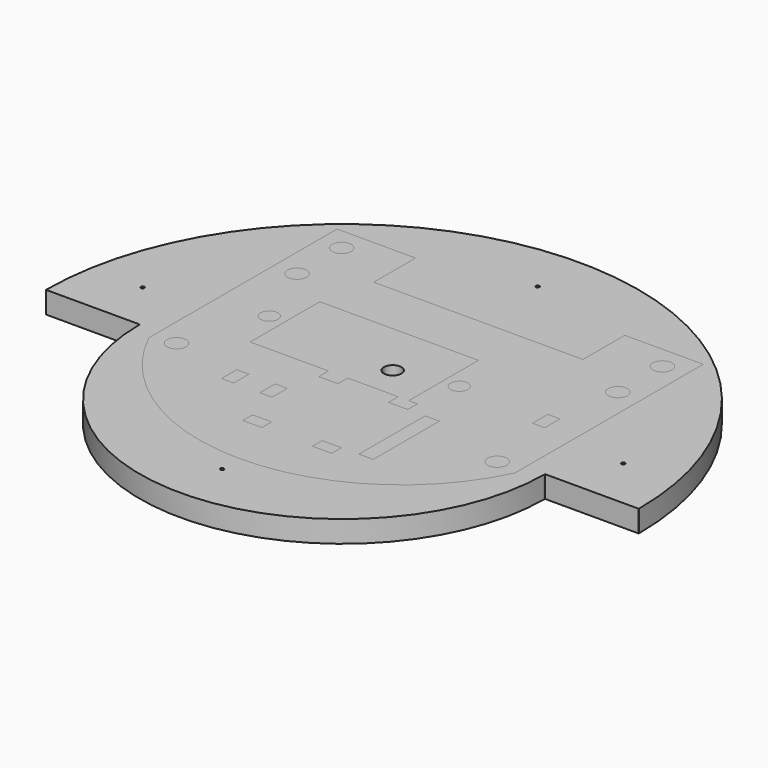
from build123d import *

# Parameters (mm, degrees)
F2_DEPTH = 3.175
F3_DEPTH = 3.175


with BuildPart() as f2:
    # F0 (on Top) → F2 (new body)
    with BuildSketch(Plane.XY):
        with BuildLine():
            Line((-43.17111, -6.832549), (-29.51861, -6.832549))
            ThreePointArc((-29.51861, -6.832549), (-29.51226, -6.826199), (-29.50591, -6.832549))
            ThreePointArc((-29.50591, -6.832549), (-29.508244, -6.837468), (-29.51353, -6.838771))
            Line((-29.51353, -6.838771), (-29.51353, -6.953327))
            ThreePointArc((-29.51353, -6.953327), (-29.508244, -6.954631), (-29.50591, -6.959549))
            ThreePointArc((-29.50591, -6.959549), (-29.508236, -6.964461), (-29.513509, -6.965775))
            ThreePointArc((-29.513509, -6.965775), (0.001274, -36.347629), (29.516049, -6.965767))
            ThreePointArc((29.516049, -6.965767), (29.512414, -6.963557), (29.51099, -6.959549))
            ThreePointArc((29.51099, -6.959549), (29.512421, -6.955533), (29.51607, -6.953327))
            Line((29.51607, -6.953327), (29.51607, -6.838771))
            ThreePointArc((29.51607, -6.838771), (29.512421, -6.836565), (29.51099, -6.832549))
            ThreePointArc((29.51099, -6.832549), (29.51734, -6.826199), (29.52369, -6.832549))
            Line((29.52369, -6.832549), (43.17619, -6.832549))
            ThreePointArc((43.17619, -6.832549), (43.177678, -6.828957), (43.18127, -6.827469))
            Line((43.18127, -6.827469), (43.18127, -6.710629))
            ThreePointArc((43.18127, -6.710629), (43.177678, -6.709141), (43.17619, -6.705549))
            ThreePointArc((43.17619, -6.705549), (43.177669, -6.701966), (43.181246, -6.700469))
            ThreePointArc((43.181246, -6.700469), (0.00254, 36.347629), (-43.178698, -6.697929))
            ThreePointArc((-43.178698, -6.697929), (-43.173331, -6.700172), (-43.17111, -6.705549))
            ThreePointArc((-43.17111, -6.705549), (-43.173342, -6.710937), (-43.17873, -6.713169))
            Line((-43.17873, -6.713169), (-43.17873, -6.824929))
            ThreePointArc((-43.17873, -6.824929), (-43.173342, -6.827161), (-43.17111, -6.832549))
        make_face()
        with BuildLine():
            ThreePointArc((-9.396715, -6.826324), (-8.114027, -5.549849), (-6.831345, -6.826331))
            ThreePointArc((-6.831345, -6.826331), (-6.82605, -6.827626), (-6.82371, -6.832549))
            ThreePointArc((-6.82371, -6.832549), (-6.82605, -6.837473), (-6.831345, -6.838768))
            ThreePointArc((-6.831345, -6.838768), (-8.114027, -8.115249), (-9.396715, -6.838774))
            ThreePointArc((-9.396715, -6.838774), (-9.400374, -6.836571), (-9.40181, -6.832549))
            ThreePointArc((-9.40181, -6.832549), (-9.400374, -6.828527), (-9.396715, -6.826324))
        make_face(mode=Mode.SUBTRACT)
        with BuildLine():
            ThreePointArc((-0.201816, -28.79593), (0.05207, -28.549549), (0.305956, -28.79593))
            ThreePointArc((0.305956, -28.79593), (0.311418, -28.798121), (0.31369, -28.803549))
            ThreePointArc((0.31369, -28.803549), (0.311418, -28.808978), (0.305956, -28.811168))
            ThreePointArc((0.305956, -28.811168), (0.05207, -29.057549), (-0.201816, -28.811168))
            ThreePointArc((-0.201816, -28.811168), (-0.207278, -28.808978), (-0.20955, -28.803549))
            ThreePointArc((-0.20955, -28.803549), (-0.207278, -28.798121), (-0.201816, -28.79593))
        make_face(mode=Mode.SUBTRACT)
        with BuildLine():
            ThreePointArc((-1.268715, -15.970324), (0.013973, -14.693849), (1.296655, -15.970331))
            ThreePointArc((1.296655, -15.970331), (1.30195, -15.971626), (1.30429, -15.976549))
            ThreePointArc((1.30429, -15.976549), (1.30195, -15.981473), (1.296655, -15.982768))
            ThreePointArc((1.296655, -15.982768), (0.013973, -17.259249), (-1.268715, -15.982774))
            ThreePointArc((-1.268715, -15.982774), (-1.272374, -15.980571), (-1.27381, -15.976549))
            ThreePointArc((-1.27381, -15.976549), (-1.272374, -15.972527), (-1.268715, -15.970324))
        make_face(mode=Mode.SUBTRACT)
        with BuildLine():
            ThreePointArc((-3.554725, -6.826326), (0.013271, -3.263849), (3.582662, -6.824929))
            ThreePointArc((3.582662, -6.824929), (3.588055, -6.827158), (3.59029, -6.832549))
            ThreePointArc((3.59029, -6.832549), (3.588055, -6.83794), (3.582662, -6.840169))
            ThreePointArc((3.582662, -6.840169), (0.013271, -10.401249), (-3.554725, -6.838772))
            ThreePointArc((-3.554725, -6.838772), (-3.558377, -6.836567), (-3.55981, -6.832549))
            ThreePointArc((-3.55981, -6.832549), (-3.558377, -6.828531), (-3.554725, -6.826326))
        make_face(mode=Mode.SUBTRACT)
        with BuildLine():
            ThreePointArc((6.859293, -6.824929), (8.142671, -5.549849), (9.424655, -6.826331))
            ThreePointArc((9.424655, -6.826331), (9.42995, -6.827626), (9.43229, -6.832549))
            ThreePointArc((9.43229, -6.832549), (9.42995, -6.837473), (9.424655, -6.838768))
            ThreePointArc((9.424655, -6.838768), (8.142671, -8.115249), (6.859293, -6.840169))
            ThreePointArc((6.859293, -6.840169), (6.85389, -6.837945), (6.85165, -6.832549))
            ThreePointArc((6.85165, -6.832549), (6.85389, -6.827153), (6.859293, -6.824929))
        make_face(mode=Mode.SUBTRACT)
        with BuildLine():
            ThreePointArc((-35.228479, 0.513131), (-34.97453, 0.762051), (-34.720581, 0.513131))
            ThreePointArc((-34.720581, 0.513131), (-34.716956, 0.511661), (-34.71545, 0.508051))
            ThreePointArc((-34.71545, 0.508051), (-34.716956, 0.504441), (-34.720581, 0.502971))
            ThreePointArc((-34.720581, 0.502971), (-34.97453, 0.254051), (-35.228479, 0.502971))
            ThreePointArc((-35.228479, 0.502971), (-35.232104, 0.504441), (-35.23361, 0.508051))
            ThreePointArc((-35.23361, 0.508051), (-35.232104, 0.511661), (-35.228479, 0.513131))
        make_face(mode=Mode.SUBTRACT)
        with BuildLine():
            ThreePointArc((-0.278053, 28.759088), (-0.024114, 29.006851), (0.229794, 28.759057))
            ThreePointArc((0.229794, 28.759057), (0.235126, 28.757794), (0.23749, 28.752851))
            ThreePointArc((0.23749, 28.752851), (0.235126, 28.747908), (0.229794, 28.746645))
            ThreePointArc((0.229794, 28.746645), (-0.024114, 28.498851), (-0.278053, 28.746614))
            ThreePointArc((-0.278053, 28.746614), (-0.281754, 28.748805), (-0.28321, 28.752851))
            ThreePointArc((-0.28321, 28.752851), (-0.281754, 28.756897), (-0.278053, 28.759088))
        make_face(mode=Mode.SUBTRACT)
        with BuildLine():
            ThreePointArc((-1.268715, 2.317676), (0.013973, 3.594151), (1.296655, 2.317669))
            ThreePointArc((1.296655, 2.317669), (1.30195, 2.316374), (1.30429, 2.311451))
            ThreePointArc((1.30429, 2.311451), (1.30195, 2.306527), (1.296655, 2.305232))
            ThreePointArc((1.296655, 2.305232), (0.013973, 1.028751), (-1.268715, 2.305226))
            ThreePointArc((-1.268715, 2.305226), (-1.272374, 2.307429), (-1.27381, 2.311451))
            ThreePointArc((-1.27381, 2.311451), (-1.272374, 2.315473), (-1.268715, 2.317676))
        make_face(mode=Mode.SUBTRACT)
        with BuildLine():
            ThreePointArc((34.570721, 0.792531), (34.82467, 1.041451), (35.078619, 0.792531))
            ThreePointArc((35.078619, 0.792531), (35.082244, 0.791061), (35.08375, 0.787451))
            ThreePointArc((35.08375, 0.787451), (35.082244, 0.783841), (35.078619, 0.782371))
            ThreePointArc((35.078619, 0.782371), (34.82467, 0.533451), (34.570721, 0.782371))
            ThreePointArc((34.570721, 0.782371), (34.567096, 0.783841), (34.56559, 0.787451))
            ThreePointArc((34.56559, 0.787451), (34.567096, 0.791061), (34.570721, 0.792531))
        make_face(mode=Mode.SUBTRACT)
    extrude(amount=F2_DEPTH)


with BuildPart() as f3:
    # F1 (on Top) → F3 (new body)
    with BuildSketch(Plane.XY):
        with BuildLine():
            ThreePointArc((-26.66238, -8.742909), (-26.66369, -8.746771), (-26.667079, -8.74904))
            ThreePointArc((-26.667079, -8.74904), (0.000856, -25.553441), (26.667818, -8.747496))
            ThreePointArc((26.667818, -8.747496), (26.665705, -8.745621), (26.66492, -8.742909))
            ThreePointArc((26.66492, -8.742909), (26.666408, -8.739316), (26.67, -8.737829))
            Line((26.67, -8.737829), (26.67, 25.542011))
            ThreePointArc((26.67, 25.542011), (26.666408, 25.543499), (26.66492, 25.547091))
            Line((26.66492, 25.547091), (15.24762, 25.547091))
            ThreePointArc((15.24762, 25.547091), (15.245286, 25.542173), (15.24, 25.54087))
            Line((15.24, 25.54087), (15.24, 17.933313))
            ThreePointArc((15.24, 17.933313), (15.245286, 17.93201), (15.24762, 17.927091))
            ThreePointArc((15.24762, 17.927091), (15.24127, 17.920741), (15.23492, 17.927091))
            Line((15.23492, 17.927091), (-15.23492, 17.927091))
            ThreePointArc((-15.23492, 17.927091), (-15.24, 17.922011), (-15.24508, 17.927091))
            ThreePointArc((-15.24508, 17.927091), (-15.243592, 17.930684), (-15.24, 17.932171))
            Line((-15.24, 17.932171), (-15.24, 25.542011))
            ThreePointArc((-15.24, 25.542011), (-15.243592, 25.543499), (-15.24508, 25.547091))
            Line((-15.24508, 25.547091), (-26.66238, 25.547091))
            ThreePointArc((-26.66238, 25.547091), (-26.664714, 25.542173), (-26.67, 25.54087))
            Line((-26.67, 25.54087), (-26.67, -8.736687))
            ThreePointArc((-26.67, -8.736687), (-26.664714, -8.73799), (-26.66238, -8.742909))
        make_face()
        with BuildLine():
            Line((-2.79908, -17.988509), (-5.58292, -17.988509))
            ThreePointArc((-5.58292, -17.988509), (-5.588, -17.993589), (-5.59308, -17.988509))
            ThreePointArc((-5.59308, -17.988509), (-5.591592, -17.984916), (-5.588, -17.983429))
            Line((-5.588, -17.983429), (-5.588, -16.215589))
            ThreePointArc((-5.588, -16.215589), (-5.591592, -16.214101), (-5.59308, -16.210509))
            ThreePointArc((-5.59308, -16.210509), (-5.588, -16.205429), (-5.58292, -16.210509))
            Line((-5.58292, -16.210509), (-2.79908, -16.210509))
            ThreePointArc((-2.79908, -16.210509), (-2.79273, -16.204159), (-2.78638, -16.210509))
            ThreePointArc((-2.78638, -16.210509), (-2.788714, -16.215427), (-2.794, -16.21673))
            Line((-2.794, -16.21673), (-2.794, -17.982287))
            ThreePointArc((-2.794, -17.982287), (-2.788714, -17.98359), (-2.78638, -17.988509))
            ThreePointArc((-2.78638, -17.988509), (-2.79273, -17.994859), (-2.79908, -17.988509))
        make_face(mode=Mode.SUBTRACT)
        with BuildLine():
            ThreePointArc((-24.764986, -7.822284), (-23.367997, -6.431509), (-21.971014, -7.82229))
            ThreePointArc((-21.971014, -7.82229), (-21.965719, -7.823585), (-21.96338, -7.828509))
            ThreePointArc((-21.96338, -7.828509), (-21.965719, -7.833432), (-21.971014, -7.834727))
            ThreePointArc((-21.971014, -7.834727), (-23.367997, -9.225509), (-24.764986, -7.834733))
            ThreePointArc((-24.764986, -7.834733), (-24.768644, -7.83253), (-24.77008, -7.828509))
            ThreePointArc((-24.77008, -7.828509), (-24.768644, -7.824487), (-24.764986, -7.822284))
        make_face(mode=Mode.SUBTRACT)
        with BuildLine():
            Line((-12.17168, -11.435309), (-13.93698, -11.435309))
            ThreePointArc((-13.93698, -11.435309), (-13.94333, -11.441659), (-13.94968, -11.435309))
            ThreePointArc((-13.94968, -11.435309), (-13.948249, -11.431293), (-13.9446, -11.429087))
            Line((-13.9446, -11.429087), (-13.9446, -8.64753))
            ThreePointArc((-13.9446, -8.64753), (-13.948249, -8.645325), (-13.94968, -8.641309))
            ThreePointArc((-13.94968, -8.641309), (-13.94333, -8.634959), (-13.93698, -8.641309))
            Line((-13.93698, -8.641309), (-12.17168, -8.641309))
            ThreePointArc((-12.17168, -8.641309), (-12.1666, -8.636229), (-12.16152, -8.641309))
            ThreePointArc((-12.16152, -8.641309), (-12.163008, -8.644901), (-12.1666, -8.646389))
            Line((-12.1666, -8.646389), (-12.1666, -11.430229))
            ThreePointArc((-12.1666, -11.430229), (-12.163008, -11.431716), (-12.16152, -11.435309))
            ThreePointArc((-12.16152, -11.435309), (-12.1666, -11.440389), (-12.17168, -11.435309))
        make_face(mode=Mode.SUBTRACT)
        with BuildLine():
            Line((-6.58368, -11.435309), (-8.35152, -11.435309))
            ThreePointArc((-8.35152, -11.435309), (-8.3566, -11.440389), (-8.36168, -11.435309))
            ThreePointArc((-8.36168, -11.435309), (-8.360192, -11.431716), (-8.3566, -11.430229))
            Line((-8.3566, -11.430229), (-8.3566, -8.646389))
            ThreePointArc((-8.3566, -8.646389), (-8.360192, -8.644901), (-8.36168, -8.641309))
            ThreePointArc((-8.36168, -8.641309), (-8.3566, -8.636229), (-8.35152, -8.641309))
            Line((-8.35152, -8.641309), (-6.58368, -8.641309))
            ThreePointArc((-6.58368, -8.641309), (-6.57733, -8.634959), (-6.57098, -8.641309))
            ThreePointArc((-6.57098, -8.641309), (-6.573314, -8.646227), (-6.5786, -8.64753))
            Line((-6.5786, -8.64753), (-6.5786, -11.429087))
            ThreePointArc((-6.5786, -11.429087), (-6.573314, -11.43039), (-6.57098, -11.435309))
            ThreePointArc((-6.57098, -11.435309), (-6.57733, -11.441659), (-6.58368, -11.435309))
        make_face(mode=Mode.SUBTRACT)
        with BuildLine():
            ThreePointArc((4.56692, -17.988509), (4.568351, -17.984493), (4.572, -17.982287))
            Line((4.572, -17.982287), (4.572, -16.21673))
            ThreePointArc((4.572, -16.21673), (4.568351, -16.214525), (4.56692, -16.210509))
            ThreePointArc((4.56692, -16.210509), (4.57327, -16.204159), (4.57962, -16.210509))
            Line((4.57962, -16.210509), (7.35838, -16.210509))
            ThreePointArc((7.35838, -16.210509), (7.366, -16.202889), (7.37362, -16.210509))
            ThreePointArc((7.37362, -16.210509), (7.371388, -16.215897), (7.366, -16.218129))
            Line((7.366, -16.218129), (7.366, -17.980889))
            ThreePointArc((7.366, -17.980889), (7.371388, -17.98312), (7.37362, -17.988509))
            ThreePointArc((7.37362, -17.988509), (7.366, -17.996129), (7.35838, -17.988509))
            Line((7.35838, -17.988509), (4.57962, -17.988509))
            ThreePointArc((4.57962, -17.988509), (4.57327, -17.994859), (4.56692, -17.988509))
        make_face(mode=Mode.SUBTRACT)
        with BuildLine():
            ThreePointArc((10.09142, -16.210509), (10.0838, -16.218129), (10.07618, -16.210509))
            Line((10.07618, -16.210509), (9.91362, -16.210509))
            ThreePointArc((9.91362, -16.210509), (9.90727, -16.216859), (9.90092, -16.210509))
            ThreePointArc((9.90092, -16.210509), (9.902351, -16.206493), (9.906, -16.204287))
            Line((9.906, -16.204287), (9.906, -4.15173))
            ThreePointArc((9.906, -4.15173), (9.902351, -4.149525), (9.90092, -4.145509))
            ThreePointArc((9.90092, -4.145509), (9.90727, -4.139159), (9.91362, -4.145509))
            Line((9.91362, -4.145509), (11.98118, -4.145509))
            ThreePointArc((11.98118, -4.145509), (11.9888, -4.137889), (11.99642, -4.145509))
            ThreePointArc((11.99642, -4.145509), (11.994188, -4.150897), (11.9888, -4.153129))
            Line((11.9888, -4.153129), (11.9888, -16.202889))
            ThreePointArc((11.9888, -16.202889), (11.994188, -16.20512), (11.99642, -16.210509))
            ThreePointArc((11.99642, -16.210509), (11.9888, -16.218129), (11.98118, -16.210509))
            Line((11.98118, -16.210509), (10.09142, -16.210509))
        make_face(mode=Mode.SUBTRACT)
        with BuildLine():
            ThreePointArc((21.971009, -7.823429), (23.368, -6.431509), (24.764991, -7.823429))
            ThreePointArc((24.764991, -7.823429), (24.768589, -7.824913), (24.77008, -7.828509))
            ThreePointArc((24.77008, -7.828509), (24.768589, -7.832104), (24.764991, -7.833589))
            ThreePointArc((24.764991, -7.833589), (23.368, -9.225509), (21.971009, -7.833589))
            ThreePointArc((21.971009, -7.833589), (21.967411, -7.832104), (21.96592, -7.828509))
            ThreePointArc((21.96592, -7.828509), (21.967411, -7.824913), (21.971009, -7.823429))
        make_face(mode=Mode.SUBTRACT)
        with BuildLine():
            ThreePointArc((-20.57399, 3.987571), (-19.304, 5.252491), (-18.03401, 3.987571))
            ThreePointArc((-18.03401, 3.987571), (-18.030411, 3.986087), (-18.02892, 3.982491))
            ThreePointArc((-18.02892, 3.982491), (-18.030411, 3.978896), (-18.03401, 3.977411))
            ThreePointArc((-18.03401, 3.977411), (-19.304, 2.712491), (-20.57399, 3.977411))
            ThreePointArc((-20.57399, 3.977411), (-20.577589, 3.978896), (-20.57908, 3.982491))
            ThreePointArc((-20.57908, 3.982491), (-20.577589, 3.986087), (-20.57399, 3.987571))
        make_face(mode=Mode.SUBTRACT)
        with BuildLine():
            ThreePointArc((4.56692, -4.145509), (4.568351, -4.141493), (4.572, -4.139287))
            Line((4.572, -4.139287), (4.572, -2.37373))
            ThreePointArc((4.572, -2.37373), (4.568351, -2.371525), (4.56692, -2.367509))
            Line((4.56692, -2.367509), (-2.78638, -2.367509))
            ThreePointArc((-2.78638, -2.367509), (-2.788714, -2.372427), (-2.794, -2.37373))
            Line((-2.794, -2.37373), (-2.794, -4.139287))
            ThreePointArc((-2.794, -4.139287), (-2.788714, -4.14059), (-2.78638, -4.145509))
            ThreePointArc((-2.78638, -4.145509), (-2.79273, -4.151859), (-2.79908, -4.145509))
            Line((-2.79908, -4.145509), (-5.58292, -4.145509))
            ThreePointArc((-5.58292, -4.145509), (-5.588, -4.150589), (-5.59308, -4.145509))
            ThreePointArc((-5.59308, -4.145509), (-5.591592, -4.141916), (-5.588, -4.140429))
            Line((-5.588, -4.140429), (-5.588, -2.372589))
            ThreePointArc((-5.588, -2.372589), (-5.591592, -2.371101), (-5.59308, -2.367509))
            Line((-5.59308, -2.367509), (-17.01038, -2.367509))
            ThreePointArc((-17.01038, -2.367509), (-17.01673, -2.373859), (-17.02308, -2.367509))
            ThreePointArc((-17.02308, -2.367509), (-17.021649, -2.363493), (-17.018, -2.361287))
            Line((-17.018, -2.361287), (-17.018, 10.32627))
            ThreePointArc((-17.018, 10.32627), (-17.021649, 10.328475), (-17.02308, 10.332491))
            ThreePointArc((-17.02308, 10.332491), (-17.01673, 10.338841), (-17.01038, 10.332491))
            Line((-17.01038, 10.332491), (6.08838, 10.332491))
            ThreePointArc((6.08838, 10.332491), (6.096, 10.340111), (6.10362, 10.332491))
            ThreePointArc((6.10362, 10.332491), (6.101388, 10.327103), (6.096, 10.324871))
            Line((6.096, 10.324871), (6.096, -2.359889))
            ThreePointArc((6.096, -2.359889), (6.101388, -2.36212), (6.10362, -2.367509))
            Line((6.10362, -2.367509), (7.35838, -2.367509))
            ThreePointArc((7.35838, -2.367509), (7.366, -2.359889), (7.37362, -2.367509))
            ThreePointArc((7.37362, -2.367509), (7.371388, -2.372897), (7.366, -2.375129))
            Line((7.366, -2.375129), (7.366, -4.137889))
            ThreePointArc((7.366, -4.137889), (7.371388, -4.14012), (7.37362, -4.145509))
            ThreePointArc((7.37362, -4.145509), (7.366, -4.153129), (7.35838, -4.145509))
            Line((7.35838, -4.145509), (4.57962, -4.145509))
            ThreePointArc((4.57962, -4.145509), (4.57327, -4.151859), (4.56692, -4.145509))
        make_face(mode=Mode.SUBTRACT)
        with BuildLine():
            ThreePointArc((-24.764986, 14.123316), (-23.367997, 15.514091), (-21.971014, 14.12331))
            ThreePointArc((-21.971014, 14.12331), (-21.965719, 14.122015), (-21.96338, 14.117091))
            ThreePointArc((-21.96338, 14.117091), (-21.965719, 14.112168), (-21.971014, 14.110873))
            ThreePointArc((-21.971014, 14.110873), (-23.367997, 12.720091), (-24.764986, 14.110867))
            ThreePointArc((-24.764986, 14.110867), (-24.768644, 14.11307), (-24.77008, 14.117091))
            ThreePointArc((-24.77008, 14.117091), (-24.768644, 14.121113), (-24.764986, 14.123316))
        make_face(mode=Mode.SUBTRACT)
        with BuildLine():
            ThreePointArc((-24.764986, 22.251316), (-23.367997, 23.642091), (-21.971014, 22.25131))
            ThreePointArc((-21.971014, 22.25131), (-21.965719, 22.250015), (-21.96338, 22.245091))
            ThreePointArc((-21.96338, 22.245091), (-21.965719, 22.240168), (-21.971014, 22.238873))
            ThreePointArc((-21.971014, 22.238873), (-23.367997, 20.848091), (-24.764986, 22.238867))
            ThreePointArc((-24.764986, 22.238867), (-24.768644, 22.24107), (-24.77008, 22.245091))
            ThreePointArc((-24.77008, 22.245091), (-24.768644, 22.249113), (-24.764986, 22.251316))
        make_face(mode=Mode.SUBTRACT)
        with BuildLine():
            ThreePointArc((7.112023, 3.990111), (8.382701, 5.252491), (9.651985, 3.98871))
            ThreePointArc((9.651985, 3.98871), (9.65728, 3.987415), (9.65962, 3.982491))
            ThreePointArc((9.65962, 3.982491), (9.65728, 3.977568), (9.651985, 3.976273))
            ThreePointArc((9.651985, 3.976273), (8.382701, 2.712492), (7.112023, 3.974871))
            ThreePointArc((7.112023, 3.974871), (7.10662, 3.977095), (7.10438, 3.982491))
            ThreePointArc((7.10438, 3.982491), (7.10662, 3.987888), (7.112023, 3.990111))
        make_face(mode=Mode.SUBTRACT)
        with BuildLine():
            ThreePointArc((20.56892, 2.077491), (20.570351, 2.081507), (20.574, 2.083713))
            Line((20.574, 2.083713), (20.574, 4.86527))
            ThreePointArc((20.574, 4.86527), (20.570351, 4.867475), (20.56892, 4.871491))
            ThreePointArc((20.56892, 4.871491), (20.57527, 4.877841), (20.58162, 4.871491))
            Line((20.58162, 4.871491), (22.34692, 4.871491))
            ThreePointArc((22.34692, 4.871491), (22.352, 4.876571), (22.35708, 4.871491))
            ThreePointArc((22.35708, 4.871491), (22.355592, 4.867899), (22.352, 4.866411))
            Line((22.352, 4.866411), (22.352, 2.082571))
            ThreePointArc((22.352, 2.082571), (22.355592, 2.081084), (22.35708, 2.077491))
            ThreePointArc((22.35708, 2.077491), (22.352, 2.072411), (22.34692, 2.077491))
            Line((22.34692, 2.077491), (20.58162, 2.077491))
            ThreePointArc((20.58162, 2.077491), (20.57527, 2.071141), (20.56892, 2.077491))
        make_face(mode=Mode.SUBTRACT)
        with BuildLine():
            ThreePointArc((21.971009, 14.122171), (23.368, 15.514091), (24.764991, 14.122171))
            ThreePointArc((24.764991, 14.122171), (24.768589, 14.120687), (24.77008, 14.117091))
            ThreePointArc((24.77008, 14.117091), (24.768589, 14.113496), (24.764991, 14.112011))
            ThreePointArc((24.764991, 14.112011), (23.368, 12.720091), (21.971009, 14.112011))
            ThreePointArc((21.971009, 14.112011), (21.967411, 14.113496), (21.96592, 14.117091))
            ThreePointArc((21.96592, 14.117091), (21.967411, 14.120687), (21.971009, 14.122171))
        make_face(mode=Mode.SUBTRACT)
        with BuildLine():
            ThreePointArc((21.971009, 22.250171), (23.368, 23.642091), (24.764991, 22.250171))
            ThreePointArc((24.764991, 22.250171), (24.768589, 22.248687), (24.77008, 22.245091))
            ThreePointArc((24.77008, 22.245091), (24.768589, 22.241496), (24.764991, 22.240011))
            ThreePointArc((24.764991, 22.240011), (23.368, 20.848091), (21.971009, 22.240011))
            ThreePointArc((21.971009, 22.240011), (21.967411, 22.241496), (21.96592, 22.245091))
            ThreePointArc((21.96592, 22.245091), (21.967411, 22.248687), (21.971009, 22.250171))
        make_face(mode=Mode.SUBTRACT)
    extrude(amount=F3_DEPTH)


solid = Compound([f2.part, f3.part])
